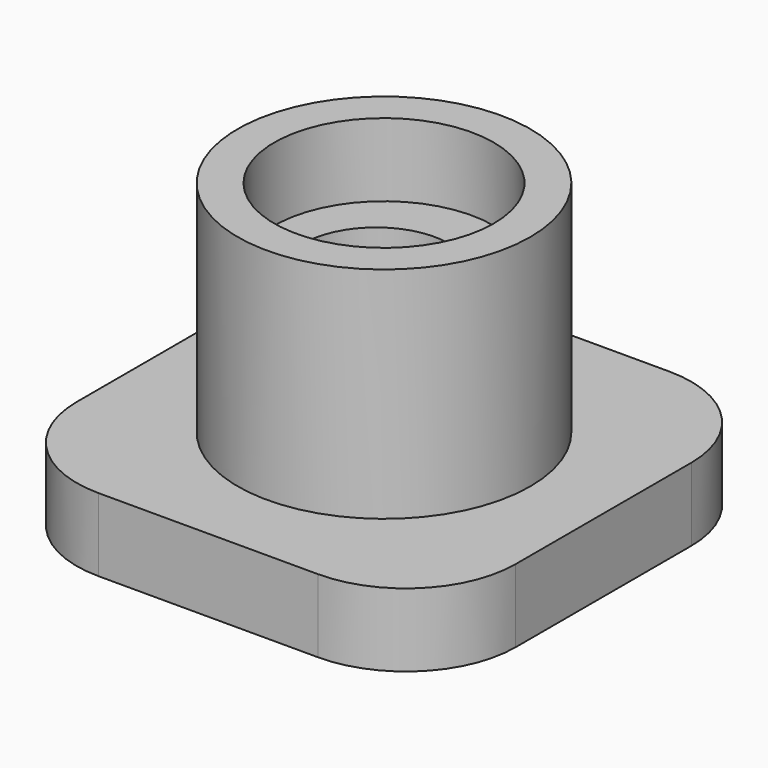
from build123d import *

# Parameters (mm, degrees)
F1_DEPTH = 508
F2_R     = 1016
F3_DEPTH = 1524
F4_R     = 762
F5_DEPTH = 508
F6_R     = 508
F7_DEPTH = 2032


with BuildPart() as f1:
    # F0 (on Top) → F1 (new body)
    with BuildSketch(Plane.XY):
        with BuildLine():
            Line((-762, -1524), (762, -1524))
            ThreePointArc((762, -1524), (1300.815367, -1300.815367), (1524, -762))
            Line((1524, -762), (1524, 762))
            ThreePointArc((1524, 762), (1300.815367, 1300.815367), (762, 1524))
            Line((762, 1524), (-762, 1524))
            ThreePointArc((-762, 1524), (-1300.815367, 1300.815367), (-1524, 762))
            Line((-1524, 762), (-1524, -762))
            ThreePointArc((-1524, -762), (-1300.815367, -1300.815367), (-762, -1524))
        make_face()
    extrude(amount=-F1_DEPTH)

    # F2 (on face) → F3 (join)
    with BuildSketch(Plane.XY):
        Circle(F2_R)
    extrude(amount=F3_DEPTH)

    # F4 (on face) → F5 (cut)
    with BuildSketch(Plane.XY.offset(1524)):
        Circle(F4_R)
    extrude(amount=-F5_DEPTH, mode=Mode.SUBTRACT)

    # F6 (on face) → F7 (cut)
    with BuildSketch(Plane.XY.offset(1016)):
        with Locations((0, -68.231903)):
            Circle(F6_R)
    extrude(amount=-F7_DEPTH, mode=Mode.SUBTRACT)


solid = f1.part
